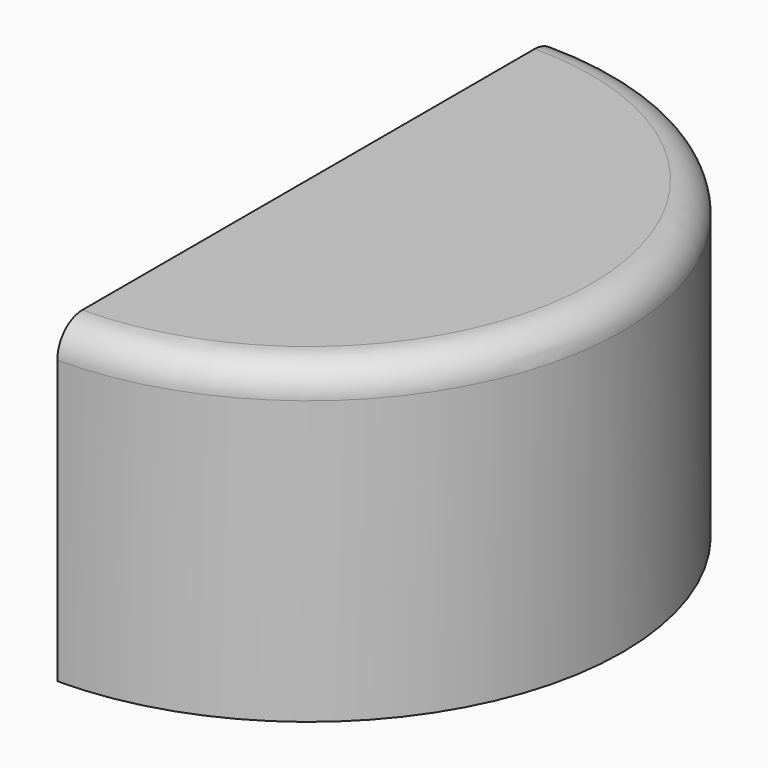
from build123d import *

# Parameters (mm, degrees)
F1_DEPTH = 25.4
F2_R     = 5.08


with BuildPart() as f1:
    # F0 (on Top) → F1 (new body, symmetric)
    with BuildSketch(Plane.XY):
        with BuildLine():
            ThreePointArc((0, -50.8), (35.9210244843, -35.9210244843), (50.8, 0))
            ThreePointArc((50.8, 0), (35.9210244843, 35.9210244843), (0, 50.8))
            Line((0, 50.8), (0, -50.8))
        make_face()
    extrude(amount=F1_DEPTH, both=True)

    # F2
    f2_edges = [f1.edges().sort_by_distance(p)[0] for p in [
        (50.8, 0, 25.4),
    ]]
    fillet(f2_edges, radius=F2_R)


solid = f1.part
